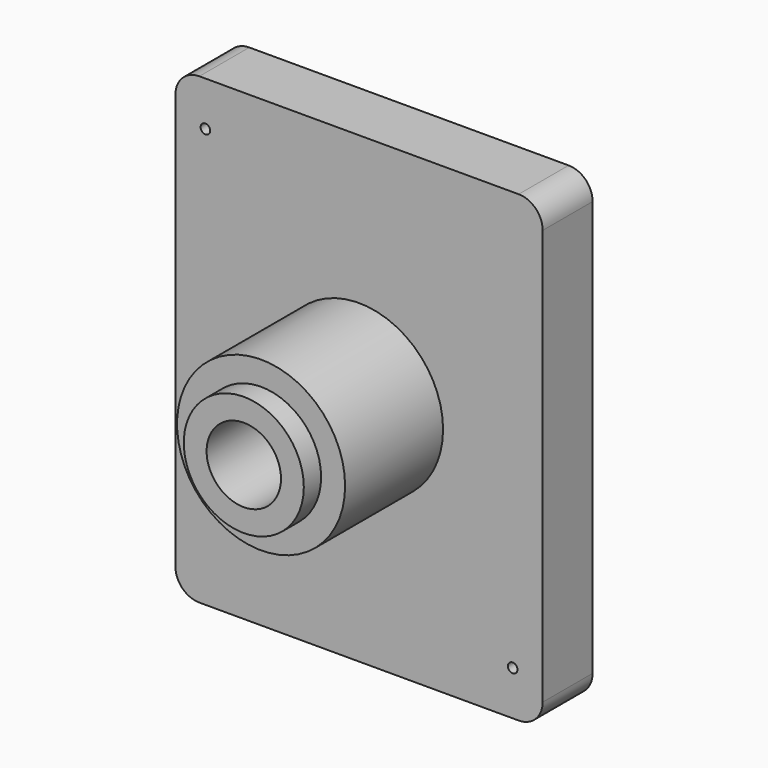
from build123d import *

# Parameters (mm, degrees)
F0_W      = 76.5
F0_H      = 96.5
F1_DEPTH  = 13
F2_R      = 17.5
F3_DEPTH  = 30
F4_R      = 5
F5_R      = 17.5
F5_R_2    = 12.5
F6_DEPTH  = 4.5
F7_R      = 7.75
F8_DEPTH  = 43
F9_R      = 1
F10_DEPTH = 13


with BuildPart() as f1:
    # F0 (on Front) → F1 (new body)
    with BuildSketch(Plane.XZ):
        with Locations((38.25, 48.25)):
            Rectangle(F0_W, F0_H)
    extrude(amount=F1_DEPTH)

    # F2 (on face) → F3 (join)
    with BuildSketch(Plane.XZ.offset(13)):
        with Locations((38.25, 48.25)):
            Circle(F2_R)
    extrude(amount=F3_DEPTH)

    # F4
    f4_edges = [f1.edges().sort_by_distance(p)[0] for p in [
        (76.5, -6.5, 96.5),
        (0, -6.5, 96.5),
        (0, -6.5, 0),
        (76.5, -6.5, 0),
    ]]
    fillet(f4_edges, radius=F4_R)

    # F5 (on face) → F6 (cut)
    with BuildSketch(Plane.XZ.offset(43)):
        with Locations((38.25, 48.25)):
            Circle(F5_R)
        with Locations((38.25, 48.25)):
            Circle(F5_R_2, mode=Mode.SUBTRACT)
    extrude(amount=-F6_DEPTH, mode=Mode.SUBTRACT)

    # F7 (on face) → F8 (cut, through all)
    with BuildSketch(Plane.XZ.offset(43)):
        with Locations((38.25, 48.25)):
            Circle(F7_R)
    extrude(amount=-F8_DEPTH, mode=Mode.SUBTRACT)

    # F9 (on face) → F10 (cut, through all)
    with BuildSketch(Plane.XZ.offset(13)):
        with Locations((6.25, 87.25)):
            Circle(F9_R)
        with Locations((70.25, 9.25)):
            Circle(F9_R)
    extrude(amount=-F10_DEPTH, mode=Mode.SUBTRACT)


solid = f1.part
